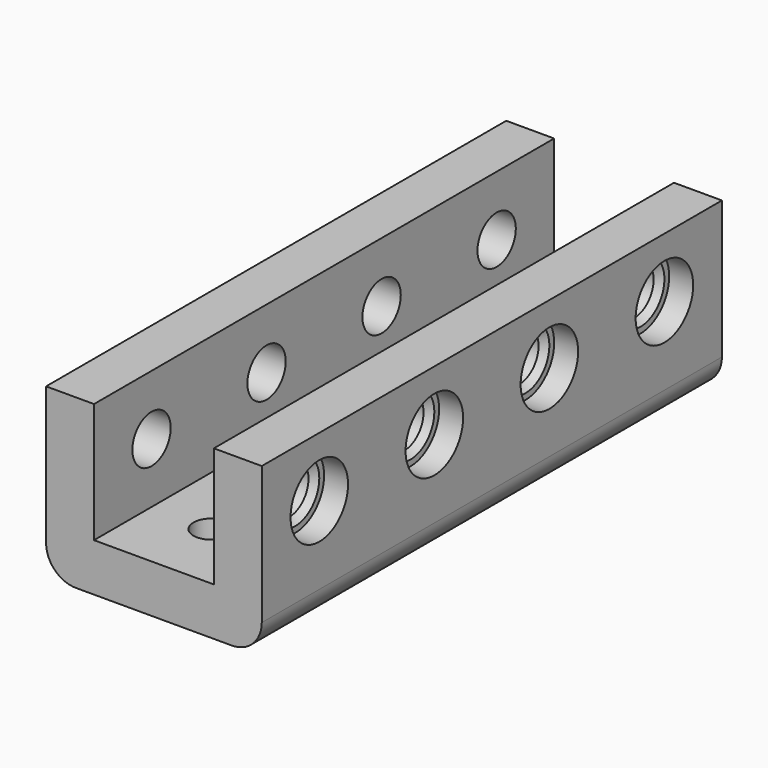
from build123d import *

# Parameters (mm, degrees)
F0_W      = 96
F0_H      = 28
F1_DEPTH  = 36
F2_W      = 20
F2_H      = 96
F3_DEPTH  = 20
F4_R      = 5
F5_R      = 4
F6_DEPTH  = 36
F7_R      = 6
F8_DEPTH  = 4
F9_SIZE   = 1
F10_R     = 3
F11_DEPTH = 8


with BuildPart() as f1:
    # F0 (on Right) → F1 (new body)
    with BuildSketch(Plane.YZ):
        with Locations((10.8510512412, -14)):
            Rectangle(F0_W, F0_H)
    extrude(amount=F1_DEPTH)

    # F2 (on face) → F3 (cut)
    with BuildSketch(Plane.XY):
        with Locations((18, 10.8510512412)):
            Rectangle(F2_W, F2_H)
    extrude(amount=-F3_DEPTH, mode=Mode.SUBTRACT)

    # F4
    f4_edges = [f1.edges().sort_by_distance(p)[0] for p in [
        (36, 10.851051, -28),
        (0, 10.851051, -28),
    ]]
    fillet(f4_edges, radius=F4_R)

    # F5 (on face) → F6 (cut)
    with BuildSketch(Plane.YZ.offset(36)):
        with Locations((46.8510512412, -10)):
            Circle(F5_R)
        with Locations((22.8510512412, -10)):
            Circle(F5_R)
        with Locations((-1.1489487588, -10)):
            Circle(F5_R)
        with Locations((-25.1489487588, -10)):
            Circle(F5_R)
    extrude(amount=-F6_DEPTH, mode=Mode.SUBTRACT)

    # F7 (on face) → F8 (cut)
    with BuildSketch(Plane.YZ.offset(36)):
        with Locations((-25.1489487588, -10)):
            Circle(F7_R)
        with Locations((-1.1489487588, -10)):
            Circle(F7_R)
        with Locations((22.8510512412, -10)):
            Circle(F7_R)
        with Locations((46.8510512412, -10)):
            Circle(F7_R)
    extrude(amount=-F8_DEPTH, mode=Mode.SUBTRACT)

    # F9
    f9_edges = [f1.edges().sort_by_distance(p)[0] for p in [
        (32, -29.148949, -10),
        (32, -5.148949, -10),
        (32, 18.851051, -10),
        (32, 42.851051, -10),
    ]]
    chamfer(f9_edges, length=F9_SIZE)

    # F10 (on face) → F11 (cut)
    with BuildSketch(Plane(origin=(0, 0, -28), x_dir=(1, 0, 0), z_dir=(0, 0, -1))):
        with Locations((18, -46.8510512412)):
            Circle(F10_R)
        with Locations((18, -10.8510512412)):
            Circle(F10_R)
        with Locations((18, 25.1489487588)):
            Circle(F10_R)
    extrude(amount=-F11_DEPTH, mode=Mode.SUBTRACT)


solid = f1.part
